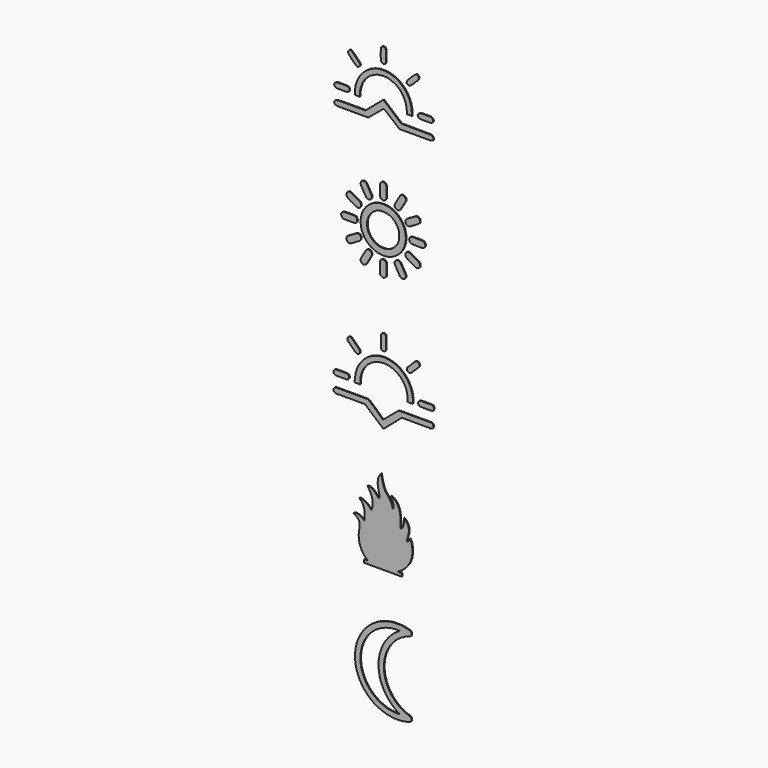
from build123d import *

# Parameters (mm, degrees)
F6_DEPTH  = 0.127
F7_DEPTH  = 0.127
F8_DEPTH  = 0.127
F9_DEPTH  = 0.127
F10_DEPTH = 0.127


with BuildPart() as f6:
    # F1 (on face) → F6 (new body)
    with BuildSketch(Plane.XZ):
        Polygon((-4.276497, -0.981356), (-4.263533, -1.007086), (-3.471103, -1.007086), (-3.471103, -0.957577), (-3.471103, -0.809608), (-3.471103, -0.65897), (-3.471103, -0.608824), (-3.471103, -0.427955), (-3.399169, 0.114254), (-3.19257, 0.78603), (-2.864967, 1.393082), (-2.43022, 1.921191), (-1.90247, 2.356176), (-1.295497, 2.684218), (-0.623004, 2.891455), (-0.079959, 2.963428), (0.101069, 2.963428), (0.281978, 2.963428), (0.824983, 2.891455), (1.497755, 2.684855), (2.104727, 2.357252), (2.632398, 1.922704), (3.067224, 1.394994), (3.394828, 0.787743), (3.601387, 0.115289), (3.67356, -0.427716), (3.67356, -0.608824), (3.67356, -0.658054), (3.67356, -0.806342), (3.67356, -0.956741), (3.67356, -1.007086), (4.465981, -1.007086), (4.465981, -0.957577), (4.465981, -0.809608), (4.465981, -0.65897), (4.465981, -0.608824), (4.465981, -0.390753), (4.376085, 0.262661), (4.118662, 1.077985), (3.712673, 1.818747), (3.176518, 2.466626), (2.52868, 3.002939), (1.787719, 3.408769), (0.972355, 3.666152), (0.31894, 3.75585), (0.101069, 3.75585), (-0.116723, 3.75585), (-0.770217, 3.666152), (-1.585501, 3.408769), (-2.326462, 3.002939), (-2.974341, 2.466626), (-3.510455, 1.818747), (-3.916488, 1.077985), (-4.173851, 0.262661), (-4.263533, -0.390753), (-4.263533, -0.608824), (-4.276282, -0.634952), (-4.308047, -0.717082), (-4.32274, -0.809608), (-4.308047, -0.900978), align=None)
        Polygon((-5.296672, 4.149969), (-4.184657, 3.038189), (-4.157429, 3.010746), (-4.053703, 2.949607), (-3.906762, 2.919933), (-3.760035, 2.949607), (-3.656309, 3.010746), (-3.628647, 3.038189), (-3.601204, 3.065592), (-3.540053, 3.16935), (-3.510654, 3.316084), (-3.540053, 3.463018), (-3.601204, 3.566537), (-3.628647, 3.59398), (-4.740663, 4.705999), (-4.768325, 4.733681), (-4.872047, 4.794781), (-5.018773, 4.824375), (-5.165504, 4.794781), (-5.269225, 4.733681), (-5.296672, 4.705999), (-5.324115, 4.678516), (-5.385482, 4.574998), (-5.414873, 4.428064), (-5.385482, 4.281369), (-5.324331, 4.177651), align=None)
        Polygon((-7.16263, -1.007086), (-7.122222, -1.007086), (-5.537179, -1.007086), (-5.496775, -1.007086), (-5.375329, -0.978528), (-5.249561, -0.89815), (-5.168097, -0.772406), (-5.138921, -0.64965), (-5.138921, -0.608824), (-5.138921, -0.567799), (-5.167443, -0.445042), (-5.248052, -0.319258), (-5.373601, -0.238841), (-5.496341, -0.210522), (-5.537179, -0.210522), (-7.122222, -0.210522), (-7.162849, -0.210522), (-7.284291, -0.249874), (-7.410055, -0.348852), (-7.491524, -0.4783), (-7.52048, -0.576203), (-7.52048, -0.608824), (-7.519831, -0.64965), (-7.489795, -0.772406), (-7.408546, -0.89815), (-7.283642, -0.978528), align=None)
        Polygon((7.202994, -2.596232), (7.162805, -2.596232), (2.320806, -2.596232), (1.366514, -3.388637), (-0.060522, -4.579314), (-1.330309, -3.388637), (-2.28022, -2.596232), (-7.122222, -2.596232), (-7.154421, -2.596232), (-7.251013, -2.624551), (-7.380453, -2.704928), (-7.480503, -2.830672), (-7.52048, -2.953429), (-7.52048, -2.994494), (-7.52048, -3.035328), (-7.481152, -3.158064), (-7.382182, -3.283836), (-7.252742, -3.364222), (-7.154851, -3.392744), (-7.122222, -3.392744), (-2.757346, -3.392744), (0.018103, -5.774303), (2.79383, -3.392744), (7.158702, -3.392744), (7.19909, -3.392744), (7.320533, -3.364222), (7.446316, -3.283836), (7.527769, -3.158064), (7.556965, -3.035328), (7.556965, -2.994494), (7.556965, -2.953429), (7.528406, -2.830672), (7.448467, -2.704928), (7.323998, -2.624551), align=None)
        Polygon((5.258364, -0.580744), (5.258364, -0.612926), (5.258364, -0.653314), (5.286683, -0.775035), (5.367299, -0.900779), (5.492804, -0.982232), (5.615561, -1.011388), (5.656626, -1.011388), (7.241709, -1.011388), (7.282096, -1.011388), (7.403499, -0.982869), (7.529322, -0.902253), (7.610735, -0.776748), (7.639931, -0.653752), (7.639931, -0.612926), (7.639931, -0.571901), (7.611412, -0.449145), (7.530796, -0.32356), (7.405291, -0.242944), (7.282534, -0.214704), (7.241709, -0.214704), (5.656626, -0.214704), (5.615561, -0.214704), (5.492804, -0.254614), (5.367299, -0.354707), (5.286683, -0.484155), align=None)
        Polygon((4.211387, 3.010746), (4.225208, 3.038189), (5.337267, 4.149969), (5.36471, 4.177651), (5.42581, 4.281369), (5.455483, 4.428064), (5.42581, 4.574798), (5.36471, 4.678516), (5.337267, 4.705999), (5.309585, 4.733681), (5.205867, 4.794781), (5.059133, 4.824375), (4.912398, 4.794781), (4.808681, 4.733681), (4.781237, 4.705999), (3.669417, 3.59398), (3.641974, 3.566537), (3.580636, 3.463018), (3.551042, 3.316084), (3.580636, 3.16935), (3.641775, 3.065592), (3.669417, 3.038189), (3.698852, 3.009471), (3.813364, 2.949607), (3.978221, 2.919933), (4.127823, 2.949607), align=None)
        Polygon((-0.010376, 4.544129), (0.022484, 4.544129), (0.062872, 4.544129), (0.184274, 4.572608), (0.310098, 4.653224), (0.391511, 4.778809), (0.420706, 4.901765), (0.420706, 4.942591), (0.420706, 6.527395), (0.420706, 6.568061), (0.392188, 6.689503), (0.311572, 6.815247), (0.186067, 6.89674), (0.06331, 6.925697), (0.022484, 6.925697), (-0.009938, 6.925697), (-0.106526, 6.897377), (-0.235974, 6.817), (-0.336067, 6.691216), (-0.376057, 6.568459), (-0.376057, 6.527395), (-0.376057, 4.942591), (-0.376057, 4.902163), (-0.336705, 4.780521), (-0.237528, 4.654777), (-0.108318, 4.573285), align=None)
    extrude(amount=F6_DEPTH)


with BuildPart() as f7:
    # F2 (on face) → F7 (new body)
    with BuildSketch(Plane.XZ):
        Polygon((-1.230026, 36.878345), (-1.359278, 36.76688), (-2.685329, 35.628153), (-4.869114, 35.628153), (-5.04495, 35.628153), (-5.571662, 35.627627), (-6.10832, 35.625008), (-6.503938, 35.618994), (-6.783393, 35.608003), (-6.971783, 35.590998), (-7.09424, 35.566136), (-7.17535, 35.532125), (-7.224804, 35.499417), (-7.240242, 35.487379), (-7.273997, 35.461475), (-7.359819, 35.362573), (-7.406133, 35.230432), (-7.379969, 35.0949), (-7.310105, 34.987877), (-7.280537, 34.958313), (-7.269024, 34.946796), (-7.230036, 34.916185), (-7.155726, 34.883737), (-7.030395, 34.860192), (-6.827609, 34.843707), (-6.520422, 34.833237), (-6.08163, 34.827483), (-5.484268, 34.825125), (-4.897375, 34.824343), (-4.701655, 34.824343), (-2.256761, 34.824343), (-1.111191, 35.782267), (-0.999494, 35.875155), (-0.663245, 36.152507), (-0.290149, 36.458121), (-0.031066, 36.666926), (0.069153, 36.745162), (0.074361, 36.74673), (0.080872, 36.750135), (0.184515, 36.678178), (0.448566, 36.474606), (0.82687, 36.169517), (1.167025, 35.889541), (1.280073, 35.795612), (2.445465, 34.824343), (4.903718, 34.824343), (5.095571, 34.824343), (5.671708, 34.824864), (6.263568, 34.827223), (6.703701, 34.832716), (7.016366, 34.842135), (7.225436, 34.856792), (7.355749, 34.878244), (7.431082, 34.907292), (7.466385, 34.934237), (7.476079, 34.944968), (7.501206, 34.972439), (7.562456, 35.068466), (7.581266, 35.184383), (7.532362, 35.30291), (7.447576, 35.40444), (7.415601, 35.434004), (7.241641, 35.594658), (2.713423, 35.634958), (1.387043, 36.76688), (1.258563, 36.878606), (0.871095, 37.210649), (0.439354, 37.572498), (0.137926, 37.816389), (0.044749, 37.905611), (0.013883, 37.905611), (-0.016935, 37.905611), (-0.109293, 37.816389), (-0.408936, 37.572498), (-0.840388, 37.210649), align=None)
        Polygon((5.366904, 37.843059), (5.352773, 37.831822), (5.319013, 37.805923), (5.233118, 37.707007), (5.186867, 37.574861), (5.213055, 37.439339), (5.28289, 37.33232), (5.312454, 37.302756), (5.323161, 37.292001), (5.357982, 37.262437), (5.410599, 37.231059), (5.47836, 37.207505), (5.570187, 37.19076), (5.694713, 37.179513), (5.860667, 37.172968), (6.0762, 37.169828), (6.281894, 37.168782), (6.350716, 37.168782), (6.419201, 37.168782), (6.624943, 37.169828), (6.840573, 37.172968), (7.006431, 37.179513), (7.130908, 37.19076), (7.222832, 37.207505), (7.290544, 37.231059), (7.343113, 37.262437), (7.378224, 37.292001), (7.38893, 37.302756), (7.407257, 37.321324), (7.48341, 37.436734), (7.522909, 37.537194), (7.522909, 37.570665), (7.522909, 37.604184), (7.48341, 37.704644), (7.407257, 37.820295), (7.38893, 37.838622), (7.377983, 37.849618), (7.343113, 37.879182), (7.291364, 37.910579), (7.224905, 37.934115), (7.135972, 37.95085), (7.016124, 37.962135), (6.857501, 37.968646), (6.651855, 37.971829), (6.456144, 37.972601), (6.391035, 37.972601), (6.32612, 37.972601), (6.131663, 37.971829), (5.926306, 37.968646), (5.766139, 37.961846), (5.643205, 37.950078), (5.548677, 37.932571), (5.474405, 37.907685), (5.411853, 37.874456), align=None)
        Polygon((4.246461, 42.319962), (4.180532, 42.252732), (4.070089, 42.142626), (3.750383, 41.800397), (3.538901, 41.501863), (3.520912, 41.302438), (3.6274, 41.176851), (3.671336, 41.14748), (3.694631, 41.132626), (3.831985, 41.0816), (3.96934, 41.074028), (3.992924, 41.080491), (4.025912, 41.08869), (4.115906, 41.150374), (4.302743, 41.302679), (4.528549, 41.512039), (4.769016, 41.752217), (4.998969, 41.998182), (5.193667, 42.224277), (5.328659, 42.404796), (5.379444, 42.486977), (5.379444, 42.514178), (5.379444, 42.548179), (5.338112, 42.6497), (5.235289, 42.78474), (5.102323, 42.888335), (5.003454, 42.929425), (4.970707, 42.929425), (4.94558, 42.929425), (4.870778, 42.876567), (4.688716, 42.731882), (4.449744, 42.517072), align=None)
        Polygon((-0.207148, 44.912242), (-0.247226, 44.871923), (-0.257933, 44.861216), (-0.287738, 44.826395), (-0.319183, 44.773826), (-0.342718, 44.706017), (-0.359502, 44.61419), (-0.370739, 44.489664), (-0.37725, 44.323758), (-0.380385, 44.108177), (-0.381205, 43.902483), (-0.381205, 43.833709), (-0.381205, 43.765176), (-0.380385, 43.559434), (-0.37725, 43.343901), (-0.370739, 43.177995), (-0.359502, 43.053469), (-0.342718, 42.961545), (-0.319183, 42.893833), (-0.287738, 42.841264), (-0.258222, 42.806443), (-0.247226, 42.795447), (-0.21554, 42.763761), (-0.097043, 42.692334), (0.060761, 42.663252), (0.208629, 42.706996), (0.306485, 42.788405), (0.328959, 42.822117), (0.345936, 42.85009), (0.380757, 42.944617), (0.409019, 43.132949), (0.41741, 43.435728), (0.412153, 43.784516), (0.409308, 43.90065), (0.407427, 43.969472), (0.401736, 44.175456), (0.393537, 44.391278), (0.38365, 44.556895), (0.37058, 44.680456), (0.353025, 44.769389), (0.329972, 44.832424), (0.299926, 44.877421), (0.271905, 44.904622), (0.26197, 44.912242), (0.216732, 44.944169), (-0.000441, 45.000162), align=None)
        Polygon((-5.185719, 42.813966), (-5.204036, 42.795447), (-5.222609, 42.777168), (-5.298757, 42.65732), (-5.338, 42.550012), (-5.338, 42.514178), (-5.338, 42.484084), (-5.283579, 42.3938), (-5.138093, 42.201224), (-4.929033, 41.963892), (-4.683342, 41.708763), (-4.428228, 41.463039), (-4.190901, 41.254017), (-3.998325, 41.108512), (-3.908051, 41.053869), (-3.8777, 41.053869), (-3.843159, 41.053869), (-3.739545, 41.091005), (-3.605055, 41.183845), (-3.503009, 41.305573), (-3.462453, 41.39822), (-3.462453, 41.429086), (-3.462453, 41.456287), (-3.520279, 41.537938), (-3.673342, 41.728392), (-3.892352, 41.971463), (-4.148252, 42.237058), (-4.411479, 42.495369), (-4.652201, 42.716641), (-4.841377, 42.87131), (-4.922493, 42.929425), (-4.949443, 42.929425), (-4.980844, 42.929425), (-5.074253, 42.890167), align=None)
        Polygon((-7.25568, 37.831291), (-7.267192, 37.818463), (-7.2965, 37.787355), (-7.370285, 37.680577), (-7.40718, 37.553158), (-7.377611, 37.429645), (-7.308533, 37.330728), (-7.280537, 37.302756), (-7.269811, 37.292001), (-7.235009, 37.262437), (-7.182416, 37.231059), (-7.11465, 37.207505), (-7.022808, 37.19076), (-6.898258, 37.179513), (-6.732367, 37.172968), (-6.516767, 37.169828), (-6.311096, 37.168782), (-6.242284, 37.168782), (-6.173737, 37.168782), (-5.968067, 37.169828), (-5.752466, 37.172968), (-5.586575, 37.179513), (-5.462029, 37.19076), (-5.370188, 37.207505), (-5.302413, 37.231059), (-5.249824, 37.262437), (-5.214767, 37.292001), (-5.204036, 37.302756), (-5.176035, 37.331018), (-5.109836, 37.4336), (-5.07844, 37.570665), (-5.109836, 37.707778), (-5.176035, 37.810601), (-5.204036, 37.838622), (-5.215027, 37.849618), (-5.249824, 37.879182), (-5.302152, 37.910579), (-5.369397, 37.934115), (-5.460457, 37.95085), (-5.58344, 37.962135), (-5.746712, 37.968646), (-5.959173, 37.971829), (-6.161699, 37.972601), (-6.228944, 37.972601), (-6.299854, 37.972601), (-6.51231, 37.97207), (-6.73132, 37.969466), (-6.896165, 37.962907), (-7.01705, 37.95085), (-7.10418, 37.932041), (-7.168285, 37.90484), (-7.21905, 37.867415), align=None)
        Polygon((-0.712968, 41.799047), (-0.749622, 41.790655), (-0.913406, 41.755641), (-1.394822, 41.607532), (-1.981473, 41.34377), (-2.521535, 40.992088), (-2.908791, 40.66452), (-3.027057, 40.544625), (-3.171756, 40.399216), (-3.548541, 39.905694), (-3.938145, 39.185112), (-4.182008, 38.414277), (-4.266258, 37.821887), (-4.266258, 37.624343), (-4.266258, 37.168782), (-3.529433, 37.168782), (-3.529433, 37.490364), (-3.528912, 37.693937), (-3.43655, 38.303834), (-3.176984, 39.04824), (-2.773245, 39.705256), (-2.246778, 40.256074), (-1.619856, 40.682317), (-0.914708, 40.965418), (-0.152795, 41.086519), (0.449096, 41.064817), (0.643746, 41.027198), (0.793641, 40.997876), (1.235317, 40.863608), (1.770942, 40.617642), (2.246137, 40.295042), (2.655597, 39.901016), (2.994209, 39.441543), (3.257391, 38.921882), (3.440033, 38.347818), (3.524577, 37.881545), (3.537358, 37.724803), (3.584187, 37.168782), (4.32787, 37.168782), (4.287551, 37.791792), (4.276555, 37.991169), (4.175516, 38.585392), (3.929117, 39.311471), (3.5471, 39.976349), (3.169519, 40.444695), (3.028161, 40.584944), (2.881643, 40.729098), (2.396031, 41.115071), (1.723582, 41.493471), (0.993547, 41.727669), (0.38992, 41.817132), (0.18818, 41.824174), (0.117767, 41.826778), (-0.093088, 41.829382), (-0.36365, 41.825235), (-0.592879, 41.812117), align=None)
    extrude(amount=F7_DEPTH)


with BuildPart() as f8:
    # F3 (on face) → F8 (new body)
    with BuildSketch(Plane.XZ):
        Polygon((-3.969738, 18.904278), (-3.992402, 18.89374), (-4.014976, 18.883364), (-4.080574, 18.847395), (-4.239772, 18.758652), (-4.446352, 18.64112), (-4.676375, 18.508657), (-4.906302, 18.375033), (-5.112104, 18.254053), (-5.270235, 18.159363), (-5.335734, 18.119554), (-5.356664, 18.10491), (-5.385537, 18.084389), (-5.460727, 18.006469), (-5.527971, 17.890972), (-5.55946, 17.765599), (-5.556358, 17.63769), (-5.519832, 17.51455), (-5.450842, 17.4035), (-5.350656, 17.311739), (-5.254442, 17.258268), (-5.220238, 17.246624), (-5.200182, 17.239855), (-5.135747, 17.230747), (-5.038854, 17.234622), (-4.935952, 17.257589), (-4.857953, 17.286468), (-4.833245, 17.298773), (-4.800108, 17.315239), (-4.702148, 17.36805), (-4.521057, 17.469205), (-4.309638, 17.590685), (-4.087646, 17.720826), (-3.874869, 17.84777), (-3.690971, 17.959766), (-3.555704, 18.045313), (-3.503769, 18.078746), (-3.488857, 18.092515), (-3.449995, 18.128859), (-3.367842, 18.274859), (-3.340999, 18.483189), (-3.404846, 18.684125), (-3.511235, 18.814552), (-3.555812, 18.844127), (-3.579047, 18.859433), (-3.657556, 18.891705), (-3.776035, 18.917279), (-3.893568, 18.918815), align=None)
        Polygon((-5.956335, 21.116251), (-5.969321, 21.11375), (-6.006624, 21.106089), (-6.111849, 21.050582), (-6.236649, 20.93546), (-6.325112, 20.791085), (-6.358734, 20.677714), (-6.358734, 20.639941), (-6.35825, 20.604294), (-6.327921, 20.497405), (-6.249922, 20.356906), (-6.140724, 20.241998), (-6.049549, 20.18492), (-6.016409, 20.176115), (-6.007108, 20.173008), (-5.924651, 20.167775), (-5.724663, 20.161578), (-5.446094, 20.157702), (-5.200471, 20.156238), (-5.1185, 20.156238), (-5.050963, 20.156238), (-4.848264, 20.156434), (-4.642462, 20.157202), (-4.490821, 20.159345), (-4.383076, 20.163417), (-4.308763, 20.170204), (-4.257703, 20.180384), (-4.219323, 20.19451), (-4.192195, 20.208387), (-4.18339, 20.213316), (-4.137849, 20.237248), (-4.024084, 20.353209), (-3.941253, 20.545447), (-3.941735, 20.755723), (-3.999867, 20.909118), (-4.032032, 20.949998), (-4.038229, 20.957838), (-4.059553, 20.979055), (-4.09754, 21.011434), (-4.140653, 21.042813), (-4.172424, 21.063173), (-4.18339, 21.069084), (-4.192302, 21.07362), (-4.219627, 21.086426), (-4.258471, 21.099695), (-4.309442, 21.109482), (-4.382111, 21.116554), (-4.486071, 21.121287), (-4.63093, 21.124591), (-4.82617, 21.126734), (-5.017537, 21.128181), (-5.081292, 21.128556), (-5.160261, 21.129056), (-5.396972, 21.128752), (-5.66953, 21.125859), (-5.870005, 21.120626), align=None)
        Polygon((-5.209386, 24.040599), (-5.230121, 24.033241), (-5.281474, 24.01531), (-5.419063, 23.914922), (-5.532427, 23.735579), (-5.559752, 23.524641), (-5.518379, 23.358478), (-5.49057, 23.311383), (-5.485046, 23.301881), (-5.465861, 23.274664), (-5.431175, 23.237266), (-5.378756, 23.194154), (-5.301144, 23.140272), (-5.190686, 23.070602), (-5.039628, 22.980002), (-4.840319, 22.863541), (-4.64905, 22.752902), (-4.585197, 22.716058), (-4.538399, 22.689323), (-4.397524, 22.609295), (-4.24713, 22.525195), (-4.128544, 22.46124), (-4.036104, 22.414735), (-3.964309, 22.383141), (-3.907534, 22.363853), (-3.860064, 22.354156), (-3.827185, 22.351459), (-3.816255, 22.351459), (-3.793788, 22.351459), (-3.726029, 22.364728), (-3.626249, 22.399233), (-3.533434, 22.447775), (-3.478963, 22.486815), (-3.46405, 22.502817), (-3.431975, 22.537589), (-3.364841, 22.668874), (-3.337891, 22.856558), (-3.382165, 23.041045), (-3.461157, 23.165739), (-3.496322, 23.19735), (-3.512699, 23.212156), (-3.569367, 23.248018), (-3.71576, 23.339011), (-3.913249, 23.457401), (-4.139385, 23.59015), (-4.371842, 23.724256), (-4.588105, 23.846503), (-4.765906, 23.943997), (-4.85311, 23.989825), (-4.882854, 24.003505), (-4.905722, 24.014149), (-4.976939, 24.040313), (-5.062109, 24.057458), (-5.144467, 24.055136), align=None)
        Polygon((-3.119293, 26.160811), (-3.153993, 26.144041), (-3.196338, 26.122931), (-3.306584, 26.026151), (-3.396202, 25.865988), (-3.417348, 25.681286), (-3.38604, 25.533429), (-3.364841, 25.489244), (-3.347, 25.453008), (-3.289457, 25.346119), (-3.181122, 25.153417), (-3.052141, 24.931442), (-2.91466, 24.700164), (-2.780857, 24.480029), (-2.663039, 24.291059), (-2.573314, 24.153667), (-2.538809, 24.101553), (-2.523879, 24.087783), (-2.493661, 24.061512), (-2.384844, 24.003398), (-2.229717, 23.970054), (-2.072251, 23.988771), (-1.958612, 24.037009), (-1.926161, 24.060458), (-1.893996, 24.084122), (-1.781107, 24.230801), (-1.732655, 24.404537), (-1.732655, 24.462384), (-1.732655, 24.473903), (-1.73403, 24.5083), (-1.740031, 24.552109), (-1.754157, 24.601223), (-1.779839, 24.662962), (-1.820451, 24.744616), (-1.879155, 24.853433), (-1.959665, 24.996754), (-2.038657, 25.135593), (-2.065, 25.181724), (-2.103666, 25.249143), (-2.220127, 25.450972), (-2.343178, 25.661337), (-2.43969, 25.821018), (-2.515271, 25.937961), (-2.575528, 26.020418), (-2.626017, 26.076425), (-2.672237, 26.114198), (-2.707705, 26.13554), (-2.719903, 26.14163), (-2.754693, 26.159078), (-2.936948, 26.194047), align=None)
        Polygon((-0.281884, 24.047975), (-0.368395, 24.03817), (-0.514127, 24.021614), (-0.945985, 23.926067), (-1.476283, 23.725417), (-1.964237, 23.432987), (-2.310334, 23.150916), (-2.414794, 23.045992), (-2.535916, 22.92537), (-2.855635, 22.519766), (-3.167656, 21.946247), (-3.353197, 21.321098), (-3.414437, 20.810266), (-3.414437, 20.639941), (-3.414437, 20.469706), (-3.353197, 19.958874), (-3.167656, 19.333724), (-2.855635, 18.760206), (-2.535916, 18.354602), (-2.414794, 18.233872), (-2.294154, 18.112857), (-1.888549, 17.793103), (-1.315049, 17.481099), (-0.689899, 17.295558), (-0.179068, 17.234229), (-0.008725, 17.234229), (0.161511, 17.234229), (0.672325, 17.295558), (1.297474, 17.481099), (1.870993, 17.793103), (2.276704, 18.112857), (2.397326, 18.233872), (2.518341, 18.354512), (2.838096, 18.760206), (3.150099, 19.333724), (3.33564, 19.958874), (3.396969, 20.469706), (3.396969, 20.639941), (3.396969, 20.810266), (3.33564, 21.321098), (3.150099, 21.946247), (2.838096, 22.519766), (2.518341, 22.92537), (2.397326, 23.045992), (2.324478, 23.119341), (2.091627, 23.325134), (1.779035, 23.550805), (1.445046, 23.731792), (1.169298, 23.845735), (1.075214, 23.876953), (0.989561, 23.905528), (0.726099, 23.970929), (0.353374, 24.031098), (-0.019405, 24.054547), align=None)
        Polygon((0.566704, 23.014988), (0.586582, 23.008773), (0.683201, 22.979609), (0.966879, 22.871292), (1.292849, 22.700663), (1.580706, 22.486351), (1.784768, 22.288772), (1.846686, 22.217567), (1.889799, 22.168918), (2.007152, 22.011952), (2.144902, 21.78162), (2.263131, 21.520694), (2.342587, 21.29822), (2.365054, 21.222836), (2.371645, 21.200172), (2.386664, 21.130395), (2.400416, 21.017042), (2.407595, 20.860844), (2.409721, 20.69518), (2.409721, 20.639941), (2.409721, 20.56979), (2.405952, 20.359138), (2.387057, 20.160899), (2.341712, 19.97893), (2.280169, 19.804604), (2.258363, 19.746972), (2.237163, 19.690376), (2.159743, 19.525462), (2.033495, 19.311525), (1.883119, 19.108339), (1.711705, 18.919512), (1.52286, 18.748079), (1.319674, 18.597721), (1.105736, 18.471455), (0.940823, 18.394035), (0.884244, 18.372836), (0.826594, 18.35103), (0.652269, 18.289486), (0.470317, 18.244141), (0.27206, 18.225246), (0.061409, 18.221478), (-0.008725, 18.221478), (-0.078984, 18.221478), (-0.289528, 18.225246), (-0.487767, 18.244141), (-0.669736, 18.289486), (-0.844151, 18.35103), (-0.901694, 18.372836), (-0.958379, 18.394035), (-1.123311, 18.471455), (-1.337248, 18.597721), (-1.540416, 18.748079), (-1.729262, 18.919512), (-1.900658, 19.108339), (-2.051052, 19.311525), (-2.1773, 19.525462), (-2.25472, 19.690376), (-2.27583, 19.746972), (-2.295136, 19.798318), (-2.348803, 19.953641), (-2.394059, 20.124073), (-2.419259, 20.298095), (-2.430189, 20.461455), (-2.432135, 20.515908), (-2.434653, 20.581595), (-2.434921, 20.778798), (-2.418848, 21.000272), (-2.380986, 21.205869), (-2.335802, 21.368175), (-2.318103, 21.421289), (-2.27942, 21.53416), (-2.118864, 21.857397), (-1.840615, 22.245731), (-1.493518, 22.57413), (-1.194516, 22.776816), (-1.087735, 22.830215), (-1.053052, 22.847253), (-0.945413, 22.891151), (-0.767802, 22.954909), (-0.588244, 23.010238), (-0.477694, 23.039116), (-0.440279, 23.045992), (-0.417133, 23.050153), (-0.346499, 23.056458), (-0.219573, 23.061887), (-0.071233, 23.062566), (0.087091, 23.059065), (0.243575, 23.051511), (0.386682, 23.040456), (0.504893, 23.026115), align=None, mode=Mode.SUBTRACT)
        Polygon((3.631927, 18.894973), (3.600352, 18.881328), (3.571955, 18.868523), (3.493392, 18.815427), (3.411114, 18.729006), (3.354232, 18.627546), (3.323728, 18.516425), (3.320138, 18.400911), (3.344266, 18.286593), (3.39688, 18.178633), (3.455691, 18.103659), (3.478855, 18.082514), (3.495124, 18.067816), (3.55181, 18.031936), (3.698203, 17.940961), (3.895675, 17.822571), (4.121828, 17.689804), (4.354286, 17.555716), (4.570545, 17.433433), (4.748335, 17.335974), (4.835542, 17.290129), (4.865385, 17.27636), (4.888156, 17.26543), (4.959272, 17.237515), (5.039586, 17.220388), (5.117202, 17.223085), (5.181853, 17.237515), (5.202785, 17.244213), (5.243165, 17.257696), (5.356143, 17.323776), (5.467193, 17.441094), (5.530183, 17.587791), (5.544417, 17.714039), (5.540059, 17.755116), (5.536683, 17.786995), (5.514484, 17.881274), (5.461871, 17.984662), (5.373985, 18.076817), (5.276508, 18.148219), (5.242397, 18.169328), (5.20666, 18.191242), (5.0987, 18.255589), (4.921196, 18.359531), (4.724689, 18.473116), (4.524021, 18.587649), (4.333819, 18.694894), (4.169119, 18.786459), (4.044497, 18.853896), (3.992758, 18.881132), (3.974952, 18.888668), (3.94452, 18.901081), (3.789483, 18.924137), align=None)
        Polygon((2.800966, 26.183117), (2.752049, 26.168847), (2.742155, 26.166151), (2.713884, 26.153649), (2.670468, 26.128932), (2.627444, 26.098124), (2.599262, 26.073728), (2.590815, 26.064691), (2.574259, 26.048225), (2.535486, 25.987575), (2.435403, 25.829055), (2.305476, 25.614742), (2.160707, 25.370158), (2.016046, 25.120948), (1.886495, 24.89267), (1.787, 24.710897), (1.744173, 24.629423), (1.732529, 24.601223), (1.724599, 24.582613), (1.709758, 24.523034), (1.704918, 24.438149), (1.718188, 24.348727), (1.740101, 24.278754), (1.74987, 24.256483), (1.761211, 24.229551), (1.80861, 24.154256), (1.886887, 24.073156), (1.980113, 24.014346), (2.083501, 23.978698), (2.192479, 23.96725), (2.302368, 23.980895), (2.40856, 24.020829), (2.484337, 24.068406), (2.506411, 24.087783), (2.518824, 24.099017), (2.566312, 24.163668), (2.66611, 24.314794), (2.797001, 24.527303), (2.912587, 24.722041), (2.950485, 24.787246), (2.991097, 24.85779), (3.112791, 25.069513), (3.234574, 25.285683), (3.320728, 25.447471), (3.376145, 25.566772), (3.405577, 25.65514), (3.413918, 25.72422), (3.406185, 25.785835), (3.392219, 25.835252), (3.386986, 25.85145), (3.371109, 25.898224), (3.288759, 26.026615), (3.141062, 26.142308), (2.957557, 26.191814), align=None)
        Polygon((-0.181193, 26.949052), (-0.194766, 26.942855), (-0.218001, 26.932282), (-0.282545, 26.888687), (-0.36627, 26.81291), (-0.433814, 26.728328), (-0.466746, 26.668838), (-0.472551, 26.647604), (-0.475658, 26.638299), (-0.48098, 26.55586), (-0.487195, 26.355871), (-0.491053, 26.0773), (-0.492428, 25.83168), (-0.492428, 25.749706), (-0.492428, 25.682161), (-0.492321, 25.479457), (-0.491553, 25.273664), (-0.489428, 25.12202), (-0.485356, 25.014292), (-0.478551, 24.939944), (-0.468389, 24.888901), (-0.454245, 24.850522), (-0.440386, 24.8235), (-0.43535, 24.814589), (-0.411507, 24.769047), (-0.295529, 24.655301), (-0.10329, 24.572451), (0.107058, 24.572933), (0.260345, 24.631066), (0.301332, 24.66323), (0.309083, 24.669428), (0.3303, 24.690769), (0.362661, 24.728739), (0.39404, 24.771851), (0.414417, 24.803623), (0.420418, 24.814589), (0.424955, 24.823393), (0.437653, 24.850325), (0.450922, 24.888509), (0.460923, 24.93764), (0.468085, 25.005952), (0.473228, 25.101785), (0.47689, 25.233534), (0.479693, 25.409502), (0.481729, 25.581006), (0.482426, 25.638084), (0.483194, 25.713165), (0.485123, 25.938336), (0.485319, 26.173902), (0.482033, 26.354513), (0.474282, 26.48987), (0.461191, 26.589757), (0.441814, 26.663981), (0.415275, 26.72222), (0.389986, 26.761761), (0.380681, 26.774155), (0.363036, 26.797497), (0.298903, 26.85913), (0.199016, 26.927621), (0.09252, 26.973359), (0.016564, 26.989932), (-0.008725, 26.989932), (-0.031299, 26.989932), (-0.09904, 26.975698), align=None)
        Polygon((5.010618, 24.047975), (4.977006, 24.040706), (4.967309, 24.038741), (4.938341, 24.031883), (4.898532, 24.019078), (4.848526, 23.997665), (4.779446, 23.962893), (4.682362, 23.910083), (4.548256, 23.834609), (4.368323, 23.731721), (4.192265, 23.630458), (4.133651, 23.596633), (4.075233, 23.563218), (3.901104, 23.460901), (3.698311, 23.338118), (3.547649, 23.242285), (3.481855, 23.19735), (3.471389, 23.187349), (3.431759, 23.150345), (3.348803, 23.000737), (3.324692, 22.787763), (3.394933, 22.583613), (3.508698, 22.452418), (3.555686, 22.423343), (3.568276, 22.41561), (3.608281, 22.395268), (3.662663, 22.376926), (3.724867, 22.366961), (3.782125, 22.363853), (3.801323, 22.363853), (3.813718, 22.363853), (3.851205, 22.364728), (3.896746, 22.369765), (3.945984, 22.382766), (4.007099, 22.407269), (4.088216, 22.447185), (4.197498, 22.506193), (4.343034, 22.587971), (4.485588, 22.669177), (4.533058, 22.696198), (4.60087, 22.73506), (4.804342, 22.852111), (5.015779, 22.975537), (5.175638, 23.072263), (5.292296, 23.148005), (5.374288, 23.208584), (5.429795, 23.259626), (5.467407, 23.306936), (5.489106, 23.34344), (5.495375, 23.356049), (5.510877, 23.387446), (5.539291, 23.490744), (5.542381, 23.624261), (5.509448, 23.750223), (5.445493, 23.862112), (5.355286, 23.953588), (5.243861, 24.018114), (5.116149, 24.049314), align=None)
        Polygon((4.305351, 21.116251), (4.294885, 21.11375), (4.256416, 21.10416), (4.146259, 21.054154), (4.030656, 20.960553), (3.952271, 20.83818), (3.918838, 20.729184), (3.915338, 20.692073), (3.911873, 20.654461), (3.920285, 20.53975), (3.96429, 20.40768), (4.046443, 20.297505), (4.133758, 20.228229), (4.165923, 20.21078), (4.17462, 20.206244), (4.20157, 20.193546), (4.239735, 20.180276), (4.288884, 20.170275), (4.357197, 20.163114), (4.453012, 20.15797), (4.584796, 20.154309), (4.760747, 20.151505), (4.932233, 20.149469), (4.989419, 20.148773), (5.064392, 20.148005), (5.289599, 20.146076), (5.525146, 20.145879), (5.70574, 20.149165), (5.841114, 20.156916), (5.941002, 20.170007), (6.015208, 20.189385), (6.073447, 20.215924), (6.112988, 20.241231), (6.125489, 20.250517), (6.148456, 20.268252), (6.209411, 20.332206), (6.277991, 20.431326), (6.324228, 20.535482), (6.341266, 20.608259), (6.341266, 20.632476), (6.341266, 20.66473), (6.319656, 20.76126), (6.259988, 20.886811), (6.169566, 20.997361), (6.086717, 21.064816), (6.056016, 21.081479), (6.049408, 21.085247), (6.028299, 21.094087), (5.989544, 21.103856), (5.933447, 21.111518), (5.853812, 21.117126), (5.744424, 21.121394), (5.598959, 21.124395), (5.411382, 21.126734), (5.23436, 21.128181), (5.175442, 21.128556), (5.0957, 21.129056), (4.856491, 21.128752), (4.584404, 21.125859), (4.387808, 21.120626), align=None)
        Polygon((-0.167834, 16.701216), (-0.207178, 16.683589), (-0.226645, 16.674766), (-0.282741, 16.643477), (-0.342427, 16.59715), (-0.392809, 16.538142), (-0.429545, 16.480403), (-0.440279, 16.460347), (-0.444744, 16.452006), (-0.456852, 16.426039), (-0.46955, 16.388248), (-0.479051, 16.339135), (-0.485927, 16.270627), (-0.490857, 16.174597), (-0.494464, 16.043218), (-0.497268, 15.868228), (-0.499286, 15.698471), (-0.499893, 15.641787), (-0.500751, 15.566794), (-0.502697, 15.341612), (-0.502894, 15.106063), (-0.49959, 14.925456), (-0.491857, 14.790097), (-0.478766, 14.690198), (-0.459388, 14.615977), (-0.432849, 14.557746), (-0.407543, 14.518213), (-0.398149, 14.505713), (-0.380611, 14.48246), (-0.31646, 14.420738), (-0.216572, 14.352331), (-0.110077, 14.306599), (-0.034103, 14.289932), (-0.008725, 14.289932), (0.02694, 14.290416), (0.133793, 14.320841), (0.274293, 14.39884), (0.389218, 14.50804), (0.446279, 14.599217), (0.455083, 14.632257), (0.458191, 14.641558), (0.463424, 14.724112), (0.469621, 14.924099), (0.473496, 15.202571), (0.474961, 15.448291), (0.474961, 15.530166), (0.474961, 15.597799), (0.474764, 15.800498), (0.473996, 16.006301), (0.471853, 16.157934), (0.467799, 16.265679), (0.461013, 16.339992), (0.450833, 16.39107), (0.436688, 16.429432), (0.422811, 16.456471), (0.417882, 16.465276), (0.397451, 16.503852), (0.303457, 16.602007), (0.144366, 16.689786), (-0.03421, 16.719915), align=None)
        Polygon((2.065356, 17.298666), (2.030191, 17.288772), (2.020011, 17.285504), (1.991043, 17.271234), (1.944538, 17.242962), (1.896192, 17.20719), (1.862188, 17.177847), (1.851615, 17.167274), (1.826237, 17.141968), (1.764033, 17.05226), (1.714527, 16.924262), (1.705025, 16.790567), (1.724492, 16.689697), (1.737476, 16.658782), (1.746495, 16.637172), (1.780303, 16.574968), (1.86626, 16.419074), (1.981739, 16.214816), (2.113237, 15.985662), (2.24704, 15.75525), (2.369519, 15.547123), (2.467103, 15.384923), (2.510412, 15.31458), (2.526289, 15.292002), (2.549828, 15.25877), (2.642464, 15.174375), (2.779196, 15.107324), (2.925, 15.087266), (3.068893, 15.110715), (3.199409, 15.173986), (3.305494, 15.273595), (3.375842, 15.40595), (3.400184, 15.527162), (3.39938, 15.567374), (3.398719, 15.586655), (3.381664, 15.688973), (3.348535, 15.786352), (3.339909, 15.803018), (3.323335, 15.836154), (3.270525, 15.933824), (3.169066, 16.115411), (3.047372, 16.327884), (2.917249, 16.551233), (2.790429, 16.765367), (2.678897, 16.950337), (2.594297, 17.085996), (2.561847, 17.137431), (2.548685, 17.152344), (2.525717, 17.177936), (2.441796, 17.241123), (2.315441, 17.294094), (2.176013, 17.310471), align=None)
        Polygon((-2.359555, 17.288968), (-2.402381, 17.269019), (-2.413615, 17.263965), (-2.446191, 17.245963), (-2.491732, 17.216316), (-2.533576, 17.183937), (-2.558776, 17.160881), (-2.566152, 17.152344), (-2.580957, 17.136074), (-2.616819, 17.079388), (-2.707777, 16.932995), (-2.826202, 16.735524), (-2.958933, 16.509371), (-3.093039, 16.276931), (-3.215305, 16.060657), (-3.312799, 15.88286), (-3.358626, 15.795655), (-3.372306, 15.765812), (-3.383344, 15.743041), (-3.41124, 15.671921), (-3.428385, 15.591599), (-3.42567, 15.513987), (-3.411151, 15.449358), (-3.404453, 15.428428), (-3.390969, 15.388023), (-3.324997, 15.275045), (-3.207661, 15.164008), (-3.060982, 15.101027), (-2.934716, 15.086784), (-2.89355, 15.091143), (-2.86176, 15.094535), (-2.767481, 15.116721), (-2.664093, 15.169335), (-2.571956, 15.257219), (-2.500447, 15.354694), (-2.479338, 15.3888), (-2.457531, 15.424553), (-2.393184, 15.532493), (-2.289207, 15.710001), (-2.175639, 15.906501), (-2.061124, 16.10716), (-1.953861, 16.297362), (-1.862314, 16.462079), (-1.794877, 16.586702), (-1.767641, 16.63844), (-1.759997, 16.656264), (-1.750871, 16.678553), (-1.73119, 16.748597), (-1.722779, 16.838037), (-1.734887, 16.928441), (-1.757461, 17.000521), (-1.767338, 17.023381), (-1.786429, 17.06719), (-1.878191, 17.183544), (-2.033817, 17.282967), (-2.214983, 17.314079), align=None)
    extrude(amount=F8_DEPTH)


with BuildPart() as f9:
    # F4 (on face) → F9 (new body)
    with BuildSketch(Plane.XZ):
        Polygon((1.631727, -30.978201), (1.606391, -30.980293), (1.501904, -30.989518), (1.18951, -31.029179), (0.783691, -31.101652), (0.388486, -31.197806), (0.003391, -31.317929), (-0.372041, -31.462113), (-0.738295, -31.630646), (-1.09578, -31.823526), (-1.35945, -31.98407), (-1.445009, -32.04104), (-1.553158, -32.113227), (-1.865447, -32.348051), (-2.258483, -32.688635), (-2.622103, -33.060415), (-2.954413, -33.460727), (-3.253273, -33.886814), (-3.51679, -34.336297), (-3.742949, -34.806334), (-3.888256, -35.170771), (-3.929752, -35.294574), (-3.974425, -35.428164), (-4.08516, -35.836827), (-4.191814, -36.386013), (-4.249764, -36.939469), (-4.258999, -37.494571), (-4.219577, -38.048712), (-4.131496, -38.599182), (-3.994806, -39.143394), (-3.861521, -39.547159), (-3.809516, -39.678799), (-3.799824, -39.703613), (-3.768647, -39.777407), (-3.717973, -39.890663), (-3.659986, -40.013724), (-3.597185, -40.141588), (-3.532008, -40.269404), (-3.466991, -40.392266), (-3.404562, -40.505264), (-3.361934, -40.579107), (-3.347183, -40.603464), (-3.301417, -40.679313), (-3.155805, -40.901972), (-2.950114, -41.187108), (-2.730365, -41.458881), (-2.496664, -41.717187), (-2.249191, -41.961882), (-1.987985, -42.192996), (-1.713321, -42.410329), (-1.498575, -42.564976), (-1.425198, -42.613938), (-1.307397, -42.692383), (-0.939583, -42.906464), (-0.431284, -43.153419), (0.096017, -43.353935), (0.638584, -43.507083), (1.192772, -43.611985), (1.754789, -43.667766), (2.320999, -43.673544), (2.746801, -43.646041), (2.887723, -43.628446), (2.945511, -43.62117), (3.254072, -43.570294), (3.567313, -43.503575), (3.627421, -43.488404), (3.661851, -43.479839), (3.764948, -43.453265), (3.876796, -43.422099), (3.966389, -43.393203), (4.037149, -43.365081), (4.092598, -43.335979), (4.136253, -43.304295), (4.171538, -43.268486), (4.19503, -43.237681), (4.202068, -43.226897), (4.211484, -43.213017), (4.235736, -43.168589), (4.256565, -43.109302), (4.265981, -43.044076), (4.266551, -42.986906), (4.265505, -42.96797), (4.264079, -42.9495), (4.255138, -42.894385), (4.234595, -42.831385), (4.201307, -42.774576), (4.166117, -42.732367), (4.153182, -42.719613), (4.14272, -42.708837), (4.108481, -42.679059), (4.058359, -42.646807), (3.991878, -42.617238), (3.921783, -42.592424), (3.898291, -42.584892), (3.829717, -42.562398), (3.62647, -42.487472), (3.360936, -42.375966), (3.102165, -42.250727), (2.850574, -42.11224), (2.606753, -41.961045), (2.371197, -41.797487), (2.144382, -41.622088), (1.926888, -41.435304), (1.719189, -41.23763), (1.521772, -41.029418), (1.335188, -40.811248), (1.15995, -40.583491), (0.996592, -40.346699), (0.84555, -40.101233), (0.707366, -39.847626), (0.61202, -39.652425), (0.58265, -39.586324), (0.538995, -39.488344), (0.422649, -39.187876), (0.294471, -38.782818), (0.198231, -38.372025), (0.133994, -37.95639), (0.101895, -37.536894), (0.102057, -37.114384), (0.134565, -36.689828), (0.179409, -36.369806), (0.199581, -36.264131), (0.219335, -36.160672), (0.29488, -35.853442), (0.421612, -35.451951), (0.578789, -35.061444), (0.765421, -34.683729), (0.980433, -34.3207), (1.222903, -33.974219), (1.491785, -33.646094), (1.709641, -33.412222), (1.78607, -33.338227), (1.896025, -33.231705), (2.248916, -32.935727), (2.747989, -32.590578), (3.283223, -32.302779), (3.70912, -32.122358), (3.854636, -32.072711), (3.886117, -32.061774), (3.980274, -32.02782), (4.057883, -31.995007), (4.108576, -31.963241), (4.14253, -31.932901), (4.153182, -31.922154), (4.167638, -31.907888), (4.207394, -31.861475), (4.240492, -31.802222), (4.257041, -31.732602), (4.261511, -31.663744), (4.261511, -31.640823), (4.261511, -31.617331), (4.256565, -31.547045), (4.238875, -31.474858), (4.204065, -31.413228), (4.162883, -31.365863), (4.147856, -31.351502), (4.135492, -31.339328), (4.09431, -31.306611), (4.027163, -31.270279), (3.929581, -31.234804), (3.820967, -31.202942), (3.784636, -31.193051), (3.722625, -31.176217), (3.535356, -31.129994), (3.29144, -31.078065), (3.041799, -31.035075), (2.842109, -31.006828), (2.775438, -30.998744), (2.750205, -30.995891), (2.674204, -30.99047), (2.534632, -30.983431), (2.3694, -30.977915), (2.191375, -30.974206), (2.013313, -30.972304), (1.847929, -30.972589), (1.708043, -30.975157), align=None)
        Polygon((2.353869, -31.780252), (2.40557, -31.784722), (2.504644, -31.792711), (2.425381, -31.837602), (2.404542, -31.849206), (2.343036, -31.886013), (2.249791, -31.944314), (2.149176, -32.010415), (2.044423, -32.081651), (1.939014, -32.155741), (1.836316, -32.230306), (1.739733, -32.302874), (1.674146, -32.353852), (1.652623, -32.371257), (1.588491, -32.423091), (1.401488, -32.585252), (1.162946, -32.810564), (0.937301, -33.046814), (0.724762, -33.293431), (0.525699, -33.549939), (0.340342, -33.815768), (0.168928, -34.090442), (0.011808, -34.373295), (-0.130769, -34.663966), (-0.258586, -34.961856), (-0.371271, -35.266508), (-0.468586, -35.577285), (-0.550275, -35.893692), (-0.616004, -36.215264), (-0.665594, -36.541478), (-0.692529, -36.788998), (-0.698673, -36.871771), (-0.702544, -36.922797), (-0.708364, -37.076359), (-0.711579, -37.320893), (-0.708364, -37.56537), (-0.702544, -37.718932), (-0.698673, -37.770015), (-0.692424, -37.854795), (-0.664776, -38.108612), (-0.613684, -38.442567), (-0.545681, -38.771367), (-0.46111, -39.09448), (-0.360171, -39.41141), (-0.24315, -39.721617), (-0.110273, -40.024709), (0.038068, -40.320078), (0.201693, -40.607335), (0.380288, -40.88587), (0.573615, -41.155266), (0.781418, -41.414979), (1.003402, -41.664506), (1.239262, -41.903362), (1.488798, -42.131081), (1.684617, -42.294848), (1.751698, -42.34712), (1.768418, -42.360226), (1.819558, -42.398574), (1.903558, -42.459348), (1.997934, -42.52561), (2.096961, -42.593451), (2.194894, -42.659086), (2.286113, -42.718643), (2.364806, -42.76828), (2.410011, -42.795576), (2.425381, -42.804193), (2.504644, -42.849084), (2.379148, -42.859661), (2.362019, -42.861154), (2.310528, -42.863474), (2.219252, -42.865281), (2.11196, -42.865234), (1.995556, -42.863427), (1.876727, -42.86007), (1.762226, -42.855381), (1.658824, -42.849446), (1.594673, -42.844595), (1.573369, -42.842474), (1.442147, -42.829169), (1.050775, -42.766834), (0.552263, -42.647483), (0.070519, -42.48225), (-0.286082, -42.327613), (-0.401458, -42.269207), (-0.501969, -42.218219), (-0.79614, -42.051047), (-1.158057, -41.812086), (-1.496711, -41.54542), (-1.743251, -41.322353), (-1.821478, -41.244126), (-1.893979, -41.171881), (-2.100841, -40.944476), (-2.355903, -40.627042), (-2.586038, -40.292982), (-2.790569, -39.94361), (-2.968955, -39.580076), (-3.12051, -39.203712), (-3.244599, -38.815687), (-3.320248, -38.517598), (-3.340582, -38.417287), (-3.347906, -38.381526), (-3.368753, -38.274091), (-3.391199, -38.14618), (-3.408537, -38.026828), (-3.42133, -37.909178), (-3.43026, -37.786526), (-3.435881, -37.652109), (-3.43882, -37.499165), (-3.439647, -37.365423), (-3.439647, -37.320893), (-3.439647, -37.28575), (-3.439438, -37.180484), (-3.43862, -37.06604), (-3.437022, -36.972329), (-3.434388, -36.894207), (-3.430527, -36.826461), (-3.4252, -36.763975), (-3.418181, -36.701536), (-3.411581, -36.650814), (-3.409251, -36.633999), (-3.393253, -36.516492), (-3.327476, -36.166407), (-3.211834, -35.715982), (-3.062504, -35.283019), (-2.879591, -34.867841), (-2.663285, -34.470686), (-2.413634, -34.092058), (-2.130819, -33.731977), (-1.897128, -33.472996), (-1.814878, -33.391012), (-1.733246, -33.309409), (-1.474569, -33.078105), (-1.11152, -32.796583), (-0.727519, -32.547494), (-0.324211, -32.331312), (0.096693, -32.148988), (0.533479, -32.001189), (0.984408, -31.888771), (1.331422, -31.826855), (1.447882, -31.812494), (1.505832, -31.805456), (1.680699, -31.79138), (1.943541, -31.778825), (2.197928, -31.776067), align=None, mode=Mode.SUBTRACT)
    extrude(amount=F9_DEPTH)


with BuildPart() as f10:
    # F5 (on face) → F10 (new body)
    with BuildSketch(Plane.XZ):
        Polygon((-0.297587, -11.878428), (-0.310294, -11.79232), (-0.366909, -11.850862), (-0.517122, -12.045441), (-0.666448, -12.309979), (-0.765499, -12.582217), (-0.821337, -12.858658), (-0.841216, -13.135766), (-0.832185, -13.409973), (-0.801471, -13.677675), (-0.756093, -13.935319), (-0.703322, -14.179381), (-0.650328, -14.406311), (-0.604132, -14.612459), (-0.57192, -14.794372), (-0.560932, -14.948456), (-0.578162, -15.071132), (-0.630851, -15.158807), (-0.700783, -15.201938), (-0.726059, -15.208028), (-0.735173, -15.19403), (-0.761656, -15.15459), (-0.804703, -15.093703), (-0.863191, -15.015058), (-0.936106, -14.922472), (-1.022532, -14.819967), (-1.1215, -14.711288), (-1.231913, -14.600348), (-1.352925, -14.490906), (-1.48337, -14.386819), (-1.622388, -14.291986), (-1.768911, -14.210248), (-1.921941, -14.145448), (-2.080589, -14.1015), (-2.243691, -14.082078), (-2.369294, -14.085241), (-2.410399, -14.091248), (-2.348166, -14.174359), (-2.173467, -14.432738), (-1.983786, -14.757276), (-1.83711, -15.064057), (-1.728875, -15.352373), (-1.654739, -15.621448), (-1.610194, -15.87074), (-1.590772, -16.099376), (-1.592201, -16.306815), (-1.609958, -16.492112), (-1.639618, -16.654756), (-1.676797, -16.793927), (-1.716986, -16.908931), (-1.755816, -16.999007), (-1.78886, -17.063598), (-1.811598, -17.101901), (-1.819727, -17.113193), (-1.859528, -17.063445), (-1.986352, -16.92021), (-2.156445, -16.751088), (-2.327676, -16.604564), (-2.4977, -16.479322), (-2.663964, -16.374028), (-2.824194, -16.287476), (-2.976086, -16.218376), (-3.117053, -16.165466), (-3.244926, -16.127455), (-3.357145, -16.103066), (-3.451452, -16.091025), (-3.525361, -16.090054), (-3.576542, -16.098918), (-3.602582, -16.116245), (-3.601077, -16.140842), (-3.578573, -16.165244), (-3.569692, -16.171487), (-3.521523, -16.20535), (-3.388607, -16.323601), (-3.237325, -16.500089), (-3.11329, -16.696166), (-3.014097, -16.907197), (-2.937104, -17.128314), (-2.879976, -17.355022), (-2.840161, -17.582465), (-2.815093, -17.805912), (-2.802372, -18.020814), (-2.799431, -18.222287), (-2.803884, -18.405698), (-2.813068, -18.566316), (-2.824499, -18.699453), (-2.835861, -18.800391), (-2.844448, -18.864371), (-2.847833, -18.88679), (-2.860554, -18.876024), (-2.896831, -18.846365), (-2.954333, -18.801154), (-3.030425, -18.744095), (-3.122698, -18.678685), (-3.228595, -18.608476), (-3.345631, -18.537045), (-3.471322, -18.467959), (-3.603184, -18.404797), (-3.738735, -18.351054), (-3.875415, -18.310421), (-4.010739, -18.286254), (-4.142226, -18.282342), (-4.267315, -18.302055), (-4.383599, -18.349028), (-4.465185, -18.404505), (-4.488518, -18.426937), (-4.426199, -18.458526), (-4.244435, -18.563986), (-4.044383, -18.703601), (-3.884447, -18.845921), (-3.760788, -18.991112), (-3.669568, -19.139162), (-3.606873, -19.290125), (-3.568863, -19.444347), (-3.551704, -19.601719), (-3.551553, -19.762337), (-3.564499, -19.926493), (-3.586626, -20.094103), (-3.614173, -20.265334), (-3.643225, -20.440324), (-3.669944, -20.619143), (-3.690491, -20.801957), (-3.699899, -20.94203), (-3.700877, -20.988781), (-3.703061, -21.079162), (-3.695233, -21.350955), (-3.662568, -21.687826), (-3.606195, -21.999865), (-3.529577, -22.287682), (-3.436098, -22.551637), (-3.329222, -22.792329), (-3.212336, -23.010297), (-3.08876, -23.205979), (-2.962005, -23.379989), (-2.835417, -23.532701), (-2.712435, -23.664715), (-2.596446, -23.776633), (-2.49093, -23.868754), (-2.399106, -23.941762), (-2.324596, -23.996178), (-2.284324, -24.02365), (-2.270631, -24.032455), (-2.869807, -24.032455), (-2.869807, -24.49232), (2.795928, -24.49232), (2.795928, -24.032455), (2.095148, -24.032455), (2.119911, -24.021767), (2.193658, -23.987824), (2.317708, -23.926408), (2.463025, -23.847304), (2.625446, -23.749537), (2.800825, -23.632351), (2.984985, -23.494918), (3.173751, -23.336261), (3.362974, -23.155552), (3.548494, -22.952031), (3.72612, -22.724658), (3.891621, -22.472757), (4.040947, -22.195331), (4.169866, -21.891561), (4.274258, -21.560627), (4.349906, -21.20163), (4.386627, -20.910955), (4.392661, -20.813707), (4.393022, -20.799474), (4.393646, -20.758994), (4.393854, -20.695027), (4.392897, -20.6105), (4.389942, -20.508439), (4.384379, -20.391617), (4.375334, -20.263142), (4.362252, -20.125857), (4.344343, -19.982719), (4.320773, -19.836626), (4.290836, -19.690463), (4.253879, -19.547227), (4.209153, -19.40979), (4.155882, -19.281177), (4.093344, -19.164133), (4.040642, -19.085946), (4.020776, -19.061863), (4.011453, -19.100915), (3.972457, -19.215462), (3.913068, -19.334462), (3.848116, -19.423205), (3.782859, -19.486035), (3.722721, -19.527292), (3.673126, -19.551375), (3.639415, -19.562668), (3.626999, -19.565456), (3.620743, -19.566205), (3.600794, -19.557327), (3.587018, -19.52646), (3.584174, -19.475283), (3.590722, -19.406267), (3.605247, -19.321824), (3.62625, -19.224423), (3.652206, -19.116508), (3.681699, -19.000518), (3.713246, -18.878965), (3.745389, -18.754181), (3.776533, -18.628702), (3.805444, -18.505041), (3.830429, -18.385527), (3.850156, -18.272631), (3.863029, -18.16885), (3.867691, -18.099667), (3.867691, -18.076652), (3.867691, -17.985647), (3.835714, -17.71266), (3.75141, -17.407253), (3.63234, -17.157294), (3.495805, -16.959719), (3.359201, -16.811379), (3.240145, -16.709317), (3.155855, -16.650317), (3.12392, -16.631339), (3.125654, -16.644448), (3.130107, -16.681919), (3.135753, -16.740864), (3.141011, -16.818454), (3.144479, -16.911859), (3.144701, -17.018137), (3.140109, -17.134501), (3.129413, -17.258079), (3.110977, -17.386013), (3.08337, -17.515473), (3.045123, -17.643574), (2.994779, -17.767457), (2.930812, -17.884362), (2.851848, -17.991293), (2.756266, -18.085447), (2.672641, -18.147014), (2.642773, -18.164022), (2.633895, -18.145669), (2.62485, -18.082298), (2.617552, -17.944487), (2.616568, -17.757982), (2.617317, -17.530317), (2.615458, -17.268983), (2.606565, -16.981402), (2.586172, -16.675079), (2.549812, -16.357533), (2.493142, -16.036242), (2.411696, -15.718612), (2.301144, -15.41222), (2.156868, -15.124556), (1.974567, -14.863014), (1.749829, -14.635113), (1.478202, -14.448317), (1.238495, -14.336628), (1.155231, -14.310214), (1.196253, -14.3942), (1.309371, -14.651386), (1.416329, -14.937982), (1.484389, -15.172722), (1.521623, -15.35856), (1.536314, -15.498092), (1.536675, -15.594285), (1.530821, -15.649901), (1.527117, -15.66788), (1.525022, -15.689036), (1.519445, -15.743763), (1.511246, -15.81894), (1.5013, -15.901371), (1.490479, -15.977824), (1.479631, -16.035257), (1.469698, -16.06038), (1.462317, -16.045342), (1.461568, -16.040154), (1.454785, -15.994554), (1.426637, -15.859059), (1.377195, -15.680088), (1.315558, -15.50457), (1.243989, -15.333728), (1.164734, -15.168962), (1.080277, -15.011673), (0.992824, -14.862944), (0.904704, -14.724384), (0.818277, -14.597032), (0.735874, -14.482486), (0.659712, -14.381853), (0.592277, -14.296591), (0.535746, -14.227935), (0.492463, -14.177286), (0.464843, -14.145892), (0.455146, -14.135224), (0.449638, -14.130022), (0.433907, -14.113541), (0.409005, -14.084103), (0.375724, -14.040071), (0.335161, -13.979864), (0.288271, -13.901969), (0.23611, -13.804652), (0.179592, -13.686345), (0.119759, -13.54544), (0.057513, -13.380397), (-0.00608, -13.189508), (-0.07013, -12.971249), (-0.133501, -12.723996), (-0.195373, -12.446195), (-0.254595, -12.136127), align=None)
    extrude(amount=F10_DEPTH)


solid = Compound([f6.part, f7.part, f8.part, f9.part, f10.part])
